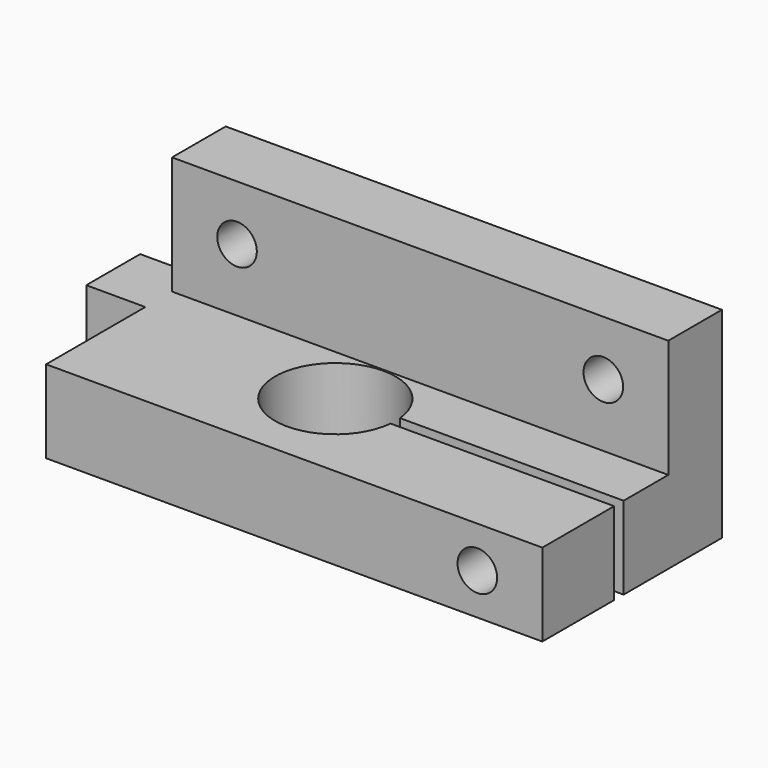
from build123d import *

# Parameters (mm, degrees)
F0_W      = 42
F0_H      = 17
F1_DEPTH  = 7
F4_DEPTH  = 25
F5_W      = 42
F5_H      = 5.6745335534
F6_DEPTH  = 10
F7_R      = 1.675
F8_DEPTH  = 25
F9_DEPTH  = 25
F10_W     = 5.7
F10_H     = 7
F11_DEPTH = 5
F12_DEPTH = 2


with BuildPart() as f1:
    # F0 (on Top) → F1 (new body)
    with BuildSketch(Plane.XY):
        with Locations((21, 8.5)):
            Rectangle(F0_W, F0_H)
    extrude(amount=F1_DEPTH)

    # F3 (on face) → F4 (cut)
    with BuildSketch(Plane(origin=(0, 17, 0), x_dir=(-1, 0, 0), z_dir=(0, 1, 0))):
        with BuildLine():
            ThreePointArc((-38.175, 3.5), (-36.5, 1.825), (-34.825, 3.5))
            ThreePointArc((-34.825, 3.5), (-36.5, 5.175), (-38.175, 3.5))
        make_face()
    extrude(amount=-F4_DEPTH, mode=Mode.SUBTRACT)

    # F5 (on face) → F6 (join)
    with BuildSketch(Plane.XY.offset(7)):
        with Locations((21, 14.1627332233)):
            Rectangle(F5_W, F5_H)
    extrude(amount=F6_DEPTH)

    # F7 (on face) → F8 (cut)
    with BuildSketch(Plane(origin=(0, 17, 0), x_dir=(-1, 0, 0), z_dir=(0, 1, 0))):
        with Locations((-36.5, 12.325)):
            Circle(F7_R)
        with Locations((-5.5, 12.325)):
            Circle(F7_R)
    extrude(amount=-F8_DEPTH, mode=Mode.SUBTRACT)

    # F2 (on face) → F9 (cut)
    with BuildSketch(Plane.XY.offset(7)):
        with BuildLine():
            ThreePointArc((23.0754310162, 5.6), (23.0938540508, 5.8496983645), (23.1, 6.1))
            ThreePointArc((23.1, 6.1), (23.0938540508, 6.3503016355), (23.0754310162, 6.6))
            ThreePointArc((23.0754310162, 6.6), (12.9, 6.1), (23.0754310162, 5.6))
        make_face()
        with BuildLine():
            Line((42, 6.1), (23.1, 6.1))
            ThreePointArc((23.1, 6.1), (23.0938540508, 5.8496983645), (23.0754310162, 5.6))
            Line((23.0754310162, 5.6), (42, 5.6))
            Line((42, 5.6), (42, 6.1))
        make_face()
        with BuildLine():
            ThreePointArc((23.0754310162, 6.6), (23.0938540508, 6.3503016355), (23.1, 6.1))
            Line((23.1, 6.1), (42, 6.1))
            Line((42, 6.1), (42, 6.6))
            Line((42, 6.6), (23.0754310162, 6.6))
        make_face()
    extrude(amount=-F9_DEPTH, mode=Mode.SUBTRACT)

    # F10 (on face) → F11 (join)
    with BuildSketch(Plane(origin=(0, 0, 0), x_dir=(0, -1, 0), z_dir=(-1, 0, 0))):
        with Locations((-11.35, 3.5)):
            Rectangle(F10_W, F10_H)
    extrude(amount=F11_DEPTH)

    # F12 (add): a face of the model
    f12_faces = [f1.faces().sort_by_distance(p)[0] for p in [
        (20.5209474116, 0, 3.5),
    ]]
    extrude(f12_faces, amount=F12_DEPTH)


solid = f1.part
